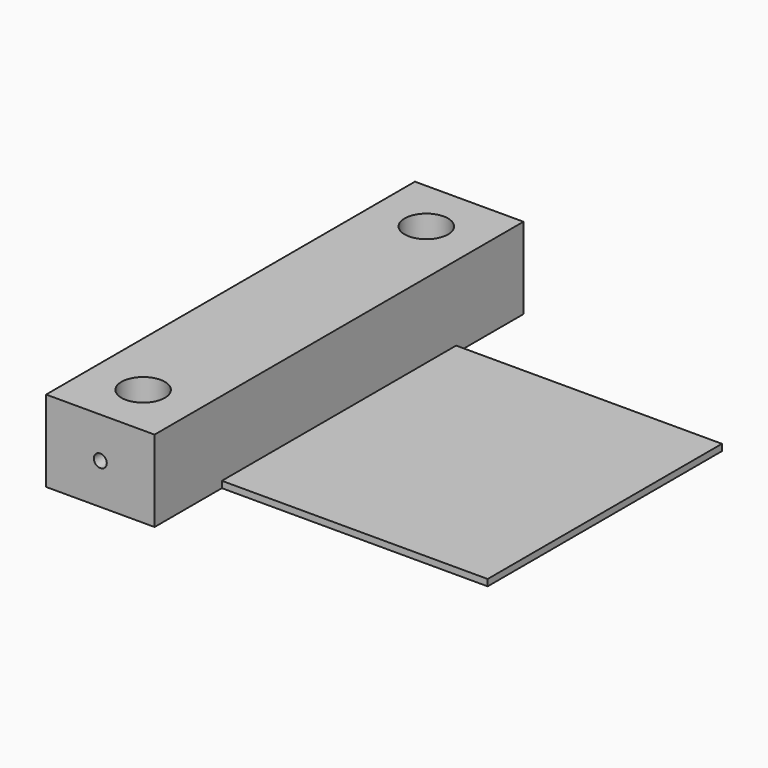
from build123d import *

# Parameters (mm, degrees)
F0_W     = 49
F0_H     = 1.2
F1_DEPTH = 26.99
F2_DEPTH = 42.5
F4_R     = 4
F5_DEPTH = 25
F6_R     = 1.19
F7_DEPTH = 8
F8_R     = 1.19
F9_DEPTH = 8


with BuildPart() as f1:
    # F0 (on Front) → F1 (new body, symmetric)
    with BuildSketch(Plane.XZ):
        with Locations((44.5, 0.6)):
            Rectangle(F0_W, F0_H)
    extrude(amount=F1_DEPTH, both=True)

    # F0 (on Front) → F2 (join, symmetric)
    with BuildSketch(Plane.XZ):
        Polygon((0, 15), (0, 0), (20, 0), (20, 1.2), (20, 15), align=None)
    extrude(amount=F2_DEPTH, both=True)

    # F4 (on offset) → F5 (cut)
    with BuildSketch(Plane.XY.offset(15)):
        with Locations((10, -32.625)):
            Circle(F4_R)
        with Locations((10, 32.625)):
            Circle(F4_R)
    extrude(amount=-F5_DEPTH, mode=Mode.SUBTRACT)

    # F6 (on face) → F7 (cut)
    with BuildSketch(Plane.XZ.offset(42.5)):
        with Locations((10, 7.5)):
            Circle(F6_R)
    extrude(amount=-F7_DEPTH, mode=Mode.SUBTRACT)

    # F8 (on face) → F9 (cut)
    with BuildSketch(Plane(origin=(0, 42.5, 0), x_dir=(-1, 0, 0), z_dir=(0, 1, 0))):
        with Locations((-10, 7.5)):
            Circle(F8_R)
    extrude(amount=-F9_DEPTH, mode=Mode.SUBTRACT)


solid = f1.part
